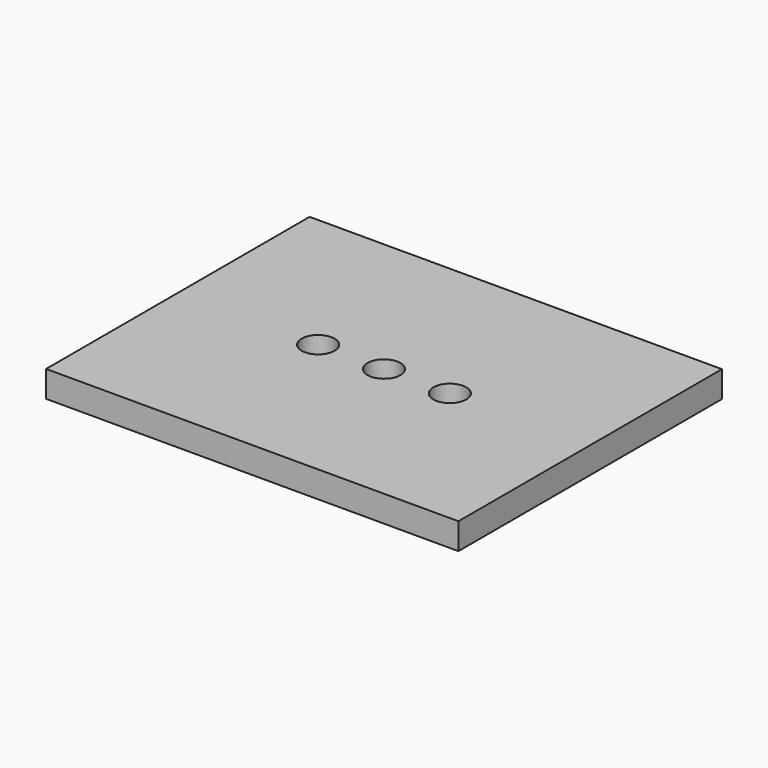
from build123d import *

# Parameters (mm, degrees)
F0_W     = 31.3
F0_H     = 2
F1_DEPTH = 25
F3_D     = 2.5


with BuildPart() as f1:
    # F0 (on Front) → F1 (new body)
    with BuildSketch(Plane.XZ):
        with Locations((15.65, 1)):
            Rectangle(F0_W, F0_H)
    extrude(amount=F1_DEPTH)

    # F3 (through all)
    with Locations(Plane.XY.offset(2)):
        with Locations((10.65, -12.5), (15.65, -12.5), (20.65, -12.5)):
            Hole(F3_D / 2)


solid = f1.part
